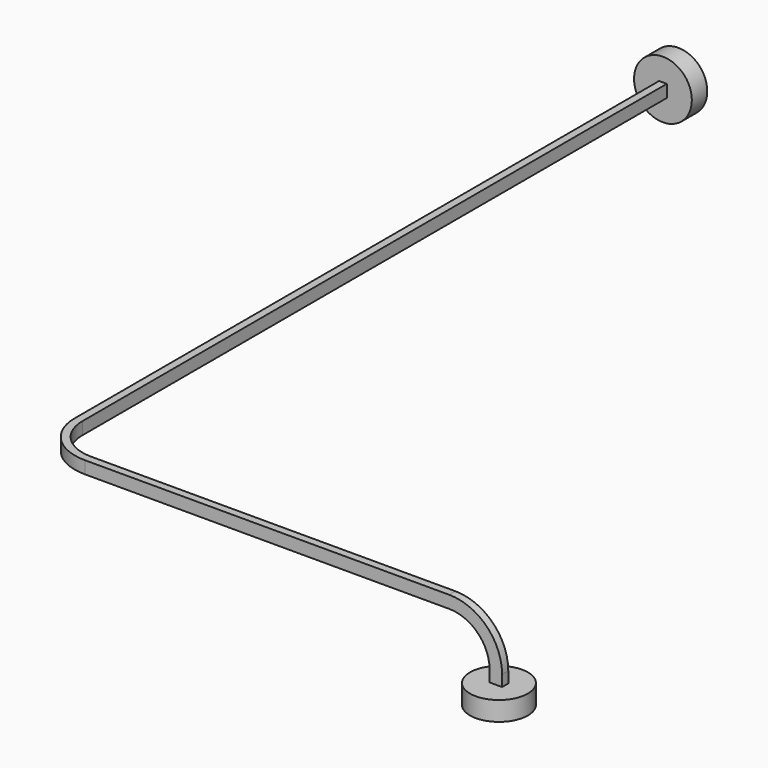
from build123d import *

# Parameters (mm, degrees)
F5_W     = 4.1
F5_H     = 2.55
F5_W_2   = 3.1
F5_H_2   = 1.55
F5_R     = 9.525
F7_DEPTH = 6.35
F0_R     = 9.525
F0_W     = 2.55
F0_H     = 4.1
F8_DEPTH = 6.35


with BuildPart() as f6:
    # F6: sweep along a path in F3, F1
    with BuildLine(Plane.XZ.offset(262.4)) as f6_path:
        Line((150.8, -25.4), (150.8, -15.4))
        ThreePointArc((150.8, -15.4), (146.2894444303, -4.5105555697), (135.4, 0))
        Line((135.4, 0), (125.4, 0))
    with BuildLine(Plane.XY) as f6_path_2:
        Line((125.4, -262.4), (25.4, -262.4))
        Line((25.4, -262.4), (15.4, -262.4))
        ThreePointArc((15.4, -262.4), (4.5105555697, -257.8894444303), (0, -247))
        Line((0, -247), (0, -237))
        Line((0, -237), (0, 0))
    # F5 (on offset) → F6 (sweep)
    with BuildSketch(Plane.XY.offset(-25.4)):
        with Locations((150.8, -262.4)):
            Rectangle(F5_W, F5_H)
        with Locations((150.8, -262.4)):
            Rectangle(F5_W_2, F5_H_2, mode=Mode.SUBTRACT)
    sweep(path=f6_path.line + f6_path_2.line)

    # F5 (on offset) → F7 (join)
    with BuildSketch(Plane.XY.offset(-25.4)):
        with Locations((150.8, -262.4)):
            Circle(F5_R)
        with Locations((150.8, -262.4)):
            Rectangle(F5_W, F5_H, mode=Mode.SUBTRACT)
    extrude(amount=F7_DEPTH)

    # F0 (on Front) → F8 (join)
    with BuildSketch(Plane.XZ):
        Circle(F0_R)
        Rectangle(F0_W, F0_H, mode=Mode.SUBTRACT)
    extrude(amount=F8_DEPTH)


solid = f6.part
